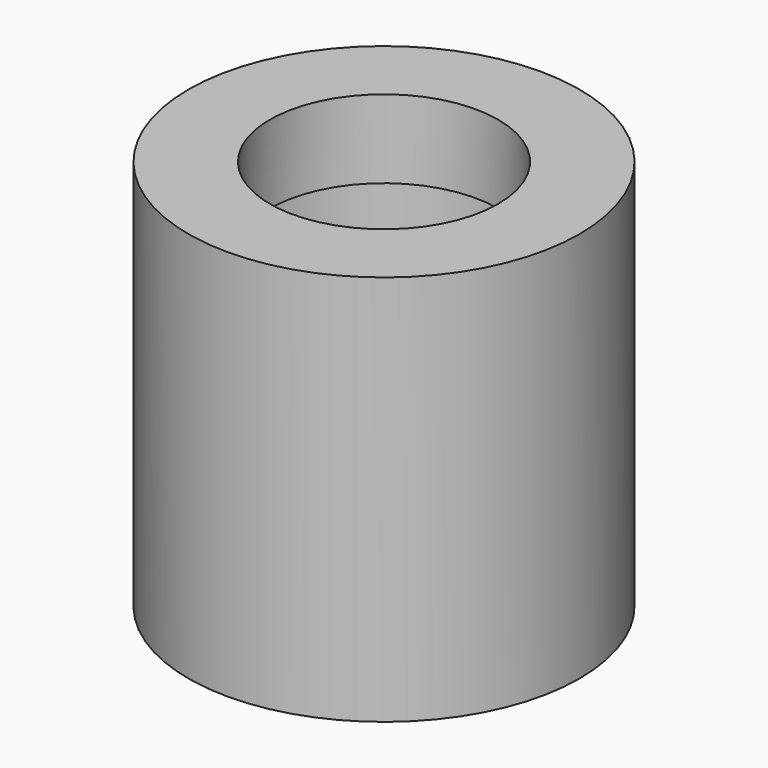
from build123d import *

# Parameters (mm, degrees)
SKETCH_R     = 3
SKETCH_R_2   = 1.75
PAD_DEPTH    = 6
SKETCH001_R  = 2.2
POCKET_DEPTH = 4.8


with BuildPart() as part:
    # Sketch → Pad (new body)
    with BuildSketch(Plane.XY):
        Circle(SKETCH_R)
        Circle(SKETCH_R_2, mode=Mode.SUBTRACT)
    extrude(amount=PAD_DEPTH)

    # Sketch001 → Pocket (cut)
    with BuildSketch(Plane.XY):
        Circle(SKETCH001_R)
    extrude(amount=POCKET_DEPTH, mode=Mode.SUBTRACT)


solid = part.part
